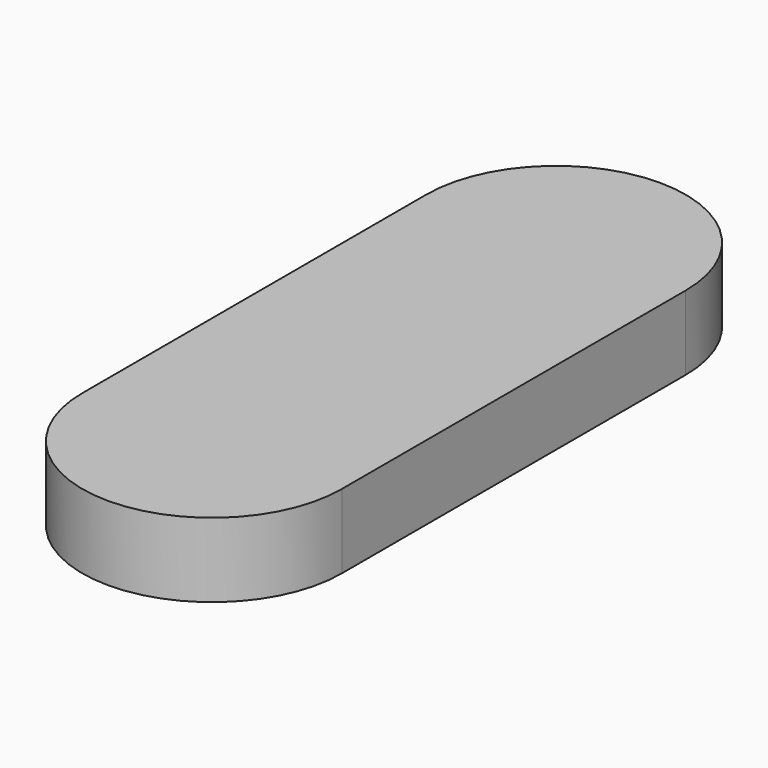
from build123d import *

# Parameters (mm, degrees)
F0_W     = 44.359287
F0_H     = 73.47857
F1_DEPTH = 12.7


with BuildPart() as f1:
    # F0 (on Top) → F1 (new body)
    with BuildSketch(Plane.XY):
        with BuildLine():
            ThreePointArc((23.268217, 27.350357), (1.088574, 49.53), (-21.09107, 27.350357))
            Line((-21.09107, 27.350357), (23.268217, 27.350357))
        make_face()
        with Locations((1.088574, -9.388928)):
            Rectangle(F0_W, F0_H)
        with BuildLine():
            Line((23.268217, -46.128213), (-21.09107, -46.128213))
            ThreePointArc((-21.09107, -46.128213), (1.088574, -68.307857), (23.268217, -46.128213))
        make_face()
    extrude(amount=F1_DEPTH)


solid = f1.part
